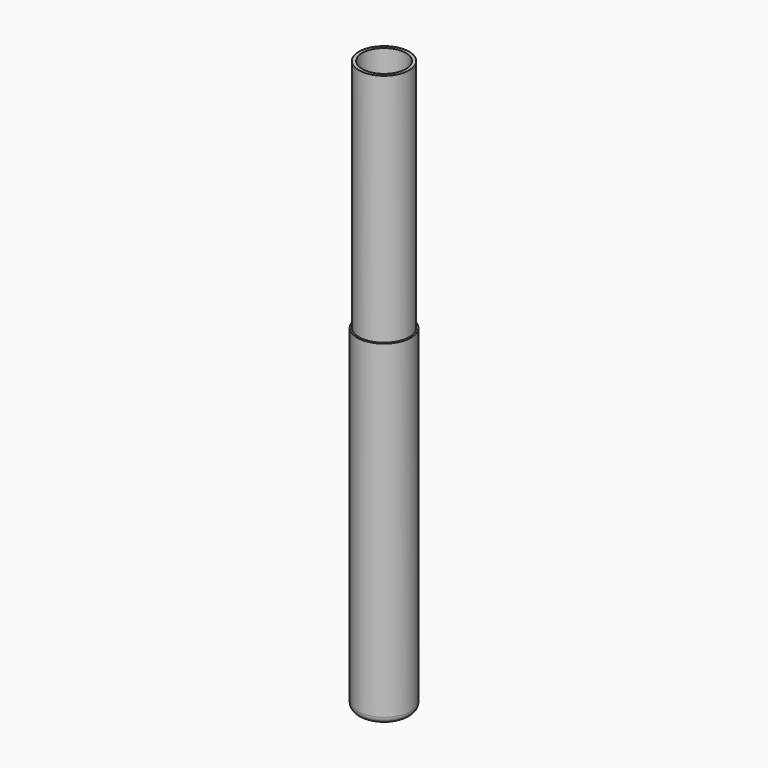
from build123d import *

# Parameters (mm, degrees)
F0_R     = 7.5
F0_R_2   = 6.5
F1_DEPTH = 70
F2_R     = 8
F3_DEPTH = 100
F4_R     = 2


with BuildPart() as f1:
    # F0 (on Top) → F1 (new body)
    with BuildSketch(Plane.XY):
        Circle(F0_R)
        Circle(F0_R_2, mode=Mode.SUBTRACT)
    extrude(amount=F1_DEPTH)

    # F2 (on face) → F3 (join)
    with BuildSketch(Plane(origin=(0, 0, 0), x_dir=(1, 0, 0), z_dir=(0, 0, -1))):
        Circle(F2_R)
    extrude(amount=F3_DEPTH)

    # F4
    f4_edges = [f1.edges().sort_by_distance(p)[0] for p in [
        (-8, 0, -100),
    ]]
    fillet(f4_edges, radius=F4_R)


solid = f1.part
